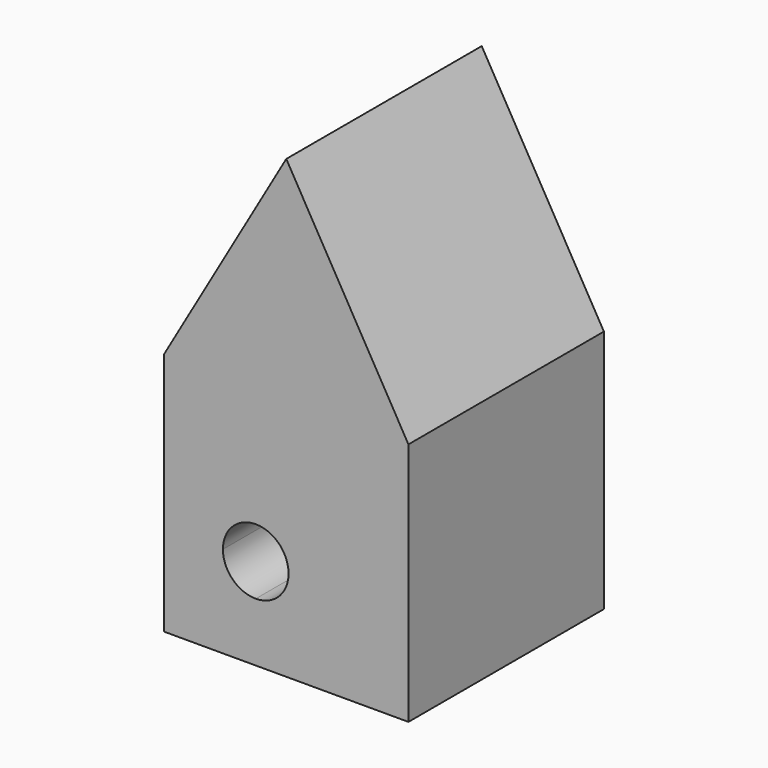
from build123d import *

# Parameters (mm, degrees)
F1_DEPTH = 50.8


with BuildPart() as f1:
    # F0 (on Front) → F1 (new body)
    with BuildSketch(Plane.XZ):
        Polygon((0, 47.668528), (-25.4, 3.674437), (-6.35, 3.674437), (25.4, 3.674437), align=None)
        with BuildLine():
            Line((-6.35, 3.674437), (-25.4, 3.674437))
            Line((-25.4, 3.674437), (-25.4, -28.075563))
            Line((-25.4, -28.075563), (-13.173735, -28.075563))
            ThreePointArc((-13.173735, -28.075563), (-11.17511, -23.250453), (-6.35, -21.251827))
            Line((-6.35, -21.251827), (-6.35, 3.674437))
        make_face()
        with BuildLine():
            Line((25.4, 3.674437), (-6.35, 3.674437))
            Line((-6.35, 3.674437), (-6.35, -21.251827))
            ThreePointArc((-6.35, -21.251827), (-1.52489, -23.250453), (0.473735, -28.075563))
            Line((0.473735, -28.075563), (25.4, -28.075563))
            Line((25.4, -28.075563), (25.4, 3.674437))
        make_face()
        with BuildLine():
            Line((-13.173735, -28.075563), (-25.4, -28.075563))
            Line((-25.4, -28.075563), (-25.4, -47.125563))
            Line((-25.4, -47.125563), (-6.35, -47.125563))
            Line((-6.35, -47.125563), (-6.35, -34.899298))
            ThreePointArc((-6.35, -34.899298), (-11.17511, -32.900672), (-13.173735, -28.075563))
        make_face()
        with BuildLine():
            Line((25.4, -47.125563), (25.4, -28.075563))
            Line((25.4, -28.075563), (0.473735, -28.075563))
            ThreePointArc((0.473735, -28.075563), (-1.52489, -32.900672), (-6.35, -34.899298))
            Line((-6.35, -34.899298), (-6.35, -47.125563))
            Line((-6.35, -47.125563), (25.4, -47.125563))
        make_face()
    extrude(amount=F1_DEPTH)


solid = f1.part
